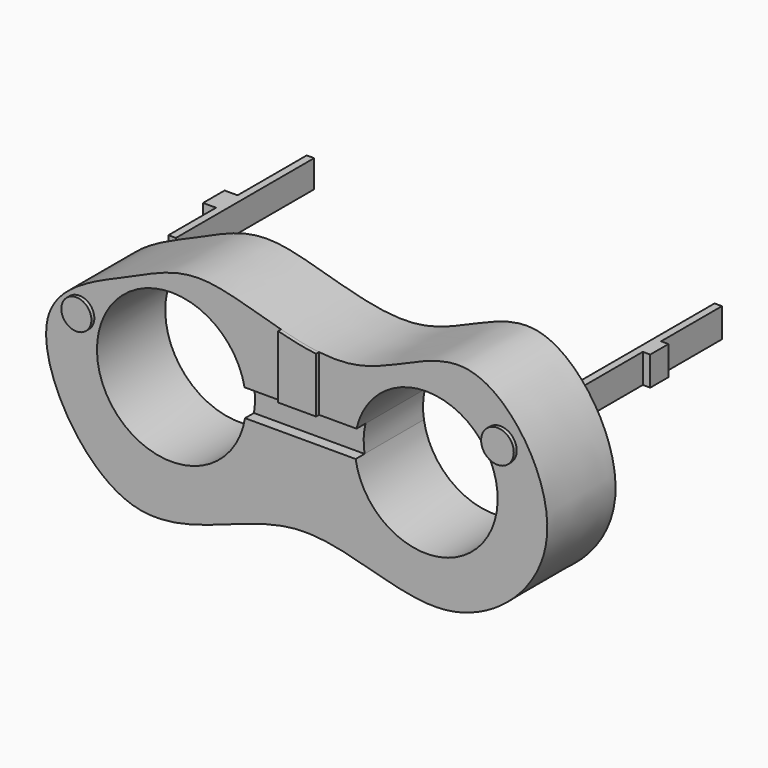
from build123d import *

# Parameters (mm, degrees)
F1_DEPTH  = 29.21
F2_W      = 59.738188982
F2_H      = 9.9890064448
F3_DEPTH  = 2.54
F5_W      = 59.1506026685
F5_H      = 9.4014182687
F6_DEPTH  = 2.54
F8_DEPTH  = 25.4
F9_R      = 5.1397729847
F9_R_2    = 5.5883833485
F10_DEPTH = 1.27
F12_DEPTH = 1.27
F13_W     = 7.7943727374
F13_H     = 9.9890064448
F14_DEPTH = 2.54
F15_W     = 9.2055574059
F15_H     = 9.4014182687
F16_DEPTH = 4.445


with BuildPart() as f1:
    # F0 (on Front) → F1 (new body)
    with BuildSketch(Plane.XZ):
        with BuildLine():
            add(Edge.make_bspline(
                [(-55.4292052984, 39.074651897), (-45.6726654146, 43.3736586454), (-28.8572237204, 52.7225306191), (21.8776532494, 26.5135292687), (63.0993097631, 64.8925051223), (103.1169725795, 4.8576711584), (53.3875888684, -38.5962799124), (2.4610880784, -5.0398184442), (-56.169498419, -49.4450796529), (-97.7783223449, 22.73893117), (-66.3119340893, 34.2794145412), (-55.4292052984, 39.074651897)],
                knots=[0, 0, 0, 0, 0.0872199341, 0.2030215941, 0.3104382426, 0.4249923261, 0.5383127447, 0.657445946, 0.7818596603, 0.9027123448, 1, 1, 1, 1], degree=3))
        make_face()
        with BuildLine():
            ThreePointArc((-15.1879945839, 9.611852202), (-65.8515462503, 13.3824210267), (-15.3421485166, 18.842585612))
            Line((-15.3421485166, 18.842585612), (22.9676950101, 18.842585612))
            ThreePointArc((22.9676950101, 18.842585612), (49.5394777045, 37.7195706425), (71.2634212404, 13.4199723609))
            ThreePointArc((71.2634212404, 13.4199723609), (48.7210291951, -10.9576123386), (22.6571997869, 9.611852202))
            Line((22.6571997869, 9.611852202), (-15.1879945839, 9.611852202))
        make_face(mode=Mode.SUBTRACT)
    extrude(amount=F1_DEPTH)

    # F0 (on Front) → F8 (join)
    with BuildSketch(Plane.XZ):
        with BuildLine():
            ThreePointArc((-15.3421485166, 18.842585612), (-14.9661638599, 16.3379307974), (-14.8404224027, 13.8083361089))
            ThreePointArc((-14.8404224027, 13.8083361089), (-14.9274639588, 11.7029095724), (-15.1879945839, 9.611852202))
            Line((-15.1879945839, 9.611852202), (22.6571997869, 9.611852202))
            ThreePointArc((22.6571997869, 9.611852202), (22.3726690705, 14.2420117803), (22.9676950101, 18.842585612))
            Line((22.9676950101, 18.842585612), (-15.3421485166, 18.842585612))
        make_face()
    extrude(amount=F8_DEPTH)

    # F9 (on face) → F10 (join)
    with BuildSketch(Plane.XZ.offset(29.21)):
        with Locations((-71.8927755952, 22.9610353708)):
            Circle(F9_R)
        with Locations((72.1933990717, 30.0789941102)):
            Circle(F9_R_2)
    extrude(amount=F10_DEPTH)

    # F11 (on face) → F12 (join)
    with BuildSketch(Plane.XZ.offset(29.21)):
        with BuildLine():
            add(Edge.make_bspline(
                [(-2.880291667, 40.3683097968), (1.4237443428, 39.2343634521), (5.7994709306, 38.2533761101), (10.121637024, 37.7543443727)],
                knots=[0.1494410793, 0.1494410793, 0.1494410793, 0.1494410793, 0.1786431409, 0.1786431409, 0.1786431409, 0.1786431409], degree=3))
            Line((-2.880291667, 40.3683097968), (-2.880291667, 18.842585612))
            Line((-2.880291667, 18.842585612), (10.121637024, 18.842585612))
            Line((10.121637024, 18.842585612), (10.121637024, 37.7543443727))
        make_face()
    extrude(amount=F12_DEPTH)


with BuildPart() as f3:
    # F2 (on Right) → F3 (new body)
    with BuildSketch(Plane.YZ):
        with Locations((29.869094491, 32.1215176955)):
            Rectangle(F2_W, F2_H)
    extrude(amount=F3_DEPTH)


with BuildPart() as f3_1:
    # F4: moved
    add(f3.part.moved(Location((74.295, 0, 0))))

    # F13 (on face) → F14 (join)
    with BuildSketch(Plane.YZ.offset(76.835)):
        with Locations((29.8025757074, 32.1215176955)):
            Rectangle(F13_W, F13_H)
    extrude(amount=F14_DEPTH)


with BuildPart() as f6:
    # F5 (on Right) → F6 (new body)
    with BuildSketch(Plane.YZ):
        with Locations((29.5753013343, 32.0235863328)):
            Rectangle(F5_W, F5_H)
    extrude(amount=-F6_DEPTH)


with BuildPart() as f6_1:
    # F7: moved
    add(f6.part.moved(Location((-62.23, 0, 0))))

    # F15 (on face) → F16 (join)
    with BuildSketch(Plane(origin=(-64.77, 0, 0), x_dir=(0, -1, 0), z_dir=(-1, 0, 0))):
        with Locations((-24.9725226313, 32.0235863328)):
            Rectangle(F15_W, F15_H)
    extrude(amount=F16_DEPTH)


solid = Compound([f1.part, f3_1.part, f6_1.part])
